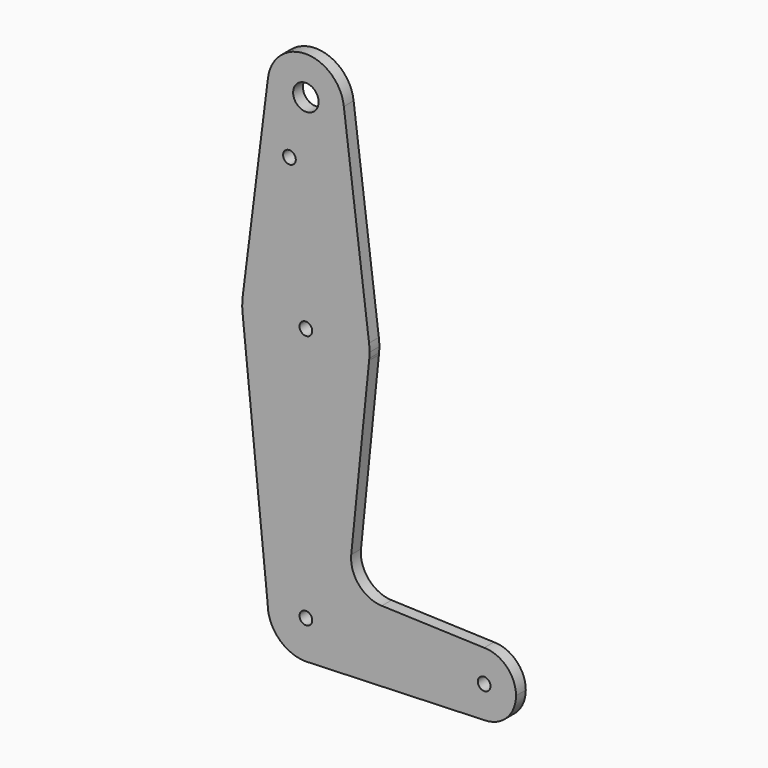
from build123d import *

# Parameters (mm, degrees)
F0_R     = 3.175
F0_R_2   = 1.5875
F1_DEPTH = 3.048


with BuildPart() as f1:
    # F0 (on Front) → F1 (new body)
    with BuildSketch(Plane.XZ):
        with BuildLine():
            ThreePointArc((-9.464408, 69.282927), (-0.537188, 58.700422), (9.525, 68.210262))
            ThreePointArc((9.525, 68.210262), (9.50984, 68.74745), (9.464408, 69.282927))
            ThreePointArc((9.464408, 69.282927), (0, 77.735262), (-9.464408, 69.282927))
        make_face()
        with Locations((0, 68.210262)):
            Circle(F0_R, mode=Mode.SUBTRACT)
        with BuildLine():
            ThreePointArc((9.464408, 69.282927), (9.50984, 68.74745), (9.525, 68.210262))
            ThreePointArc((9.525, 68.210262), (-0.537188, 58.700422), (-9.464408, 69.282927))
            Line((-9.464408, 69.282927), (-15.750459, 19.394869))
            ThreePointArc((-15.750459, 19.394869), (0, 33.285262), (15.750459, 19.394869))
            Line((15.750459, 19.394869), (9.464408, 69.282927))
        make_face()
        with Locations((-4.10057, 53.704553)):
            Circle(F0_R_2, mode=Mode.SUBTRACT)
        with BuildLine():
            ThreePointArc((15.875, 17.410262), (15.843834, 18.404518), (15.750459, 19.394869))
            ThreePointArc((15.750459, 19.394869), (0, 33.285262), (-15.750459, 19.394869))
            ThreePointArc((-15.750459, 19.394869), (-15.873818, 17.603994), (-15.794203, 15.810642))
            ThreePointArc((-15.794203, 15.810642), (-0.113839, 1.53567), (15.769637, 15.584293))
            Line((15.769637, 15.584293), (15.815592, 16.038155))
            ThreePointArc((15.815592, 16.038155), (15.860141, 16.723566), (15.875, 17.410262))
        make_face()
        with Locations((0, 17.410262)):
            Circle(F0_R_2, mode=Mode.SUBTRACT)
        with BuildLine():
            ThreePointArc((15.769637, 15.584293), (-0.113839, 1.53567), (-15.794203, 15.810642))
            Line((-15.794203, 15.810642), (-9.525, -46.089738))
            ThreePointArc((-9.525, -46.089738), (0, -36.564738), (9.525, -46.089738))
            ThreePointArc((9.525, -46.089738), (6.970557, -52.581037), (0.677344, -55.590624))
            Line((0.677344, -55.590624), (44.732405, -54.022212))
            ThreePointArc((44.732405, -54.022212), (36.513756, -46.230963), (44.45, -38.152238))
            Line((44.45, -38.152238), (18.932522, -37.240899))
            ThreePointArc((18.932522, -37.240899), (13.224065, -34.520616), (11.306519, -28.494884))
            Line((11.306519, -28.494884), (15.769637, 15.584293))
        make_face()
        with BuildLine():
            ThreePointArc((15.769637, 15.584293), (15.794245, 15.811059), (15.815592, 16.038155))
            Line((15.815592, 16.038155), (15.769637, 15.584293))
        make_face()
        with BuildLine():
            ThreePointArc((9.525, -46.089738), (0, -36.564738), (-9.525, -46.089738))
            ThreePointArc((-9.525, -46.089738), (-6.735192, -52.82493), (0, -55.614738))
            Line((0, -55.614738), (0.677344, -55.590624))
            ThreePointArc((0.677344, -55.590624), (6.970557, -52.581037), (9.525, -46.089738))
        make_face()
        with Locations((0, -46.089738)):
            Circle(F0_R_2, mode=Mode.SUBTRACT)
        with BuildLine():
            Line((0.677344, -55.590624), (0, -55.614738))
            ThreePointArc((0, -55.614738), (0.338886, -55.608707), (0.677344, -55.590624))
        make_face()
        with BuildLine():
            ThreePointArc((52.3875, -46.089738), (50.06266, -40.477078), (44.45, -38.152238))
            ThreePointArc((44.45, -38.152238), (36.513756, -46.230963), (44.732405, -54.022212))
            ThreePointArc((44.732405, -54.022212), (50.161633, -51.601648), (52.3875, -46.089738))
        make_face()
        with Locations((44.45, -46.089738)):
            Circle(F0_R_2, mode=Mode.SUBTRACT)
    extrude(amount=F1_DEPTH)


solid = f1.part
